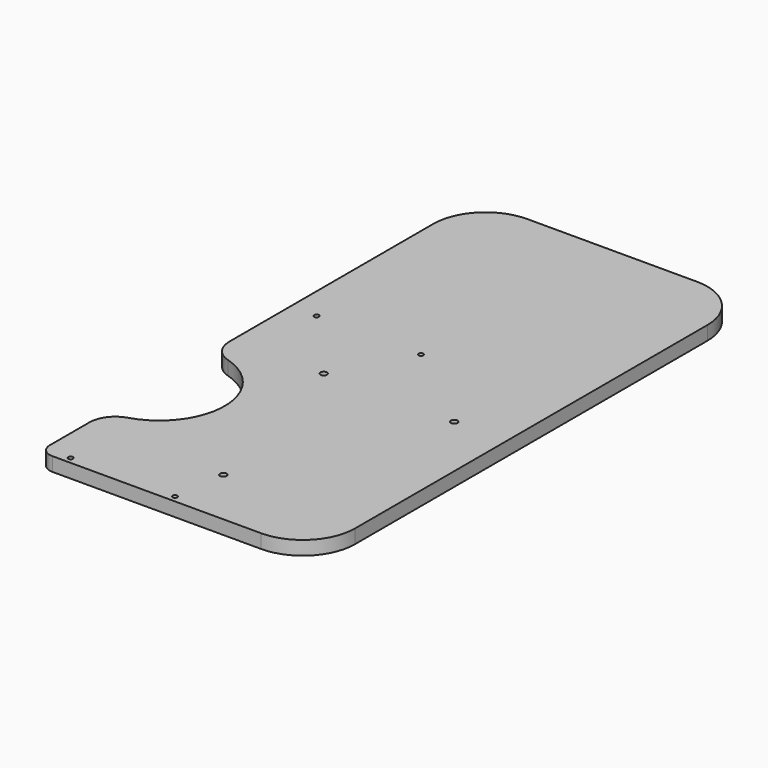
from build123d import *

# Parameters (mm, degrees)
F0_R     = 3.175
F1_DEPTH = 13.49375
F2_R     = 25.4
F4_W     = 266.7
F4_H     = 238.125
F5_DEPTH = 13.49375
F3_R     = 2.38125
F6_DEPTH = 13.49475
F7_R     = 50.8
F8_R     = 12.7


with BuildPart() as f1:
    # F0 (on Top) → F1 (new body)
    with BuildSketch(Plane.XY):
        with BuildLine():
            Line((133.35, -146.05), (133.35, 146.05))
            Line((133.35, 146.05), (-133.35, 146.05))
            Line((-133.35, 146.05), (-133.35, 63.5))
            ThreePointArc((-133.35, 63.5), (-69.85, 0), (-133.35, -63.5))
            Line((-133.35, -63.5), (-133.35, -146.05))
            Line((-133.35, -146.05), (133.35, -146.05))
        make_face()
        with Locations((0, -88.9)):
            Circle(F0_R, mode=Mode.SUBTRACT)
        with Locations((-44.45, 88.9)):
            Circle(F0_R, mode=Mode.SUBTRACT)
        with Locations((82.55, 88.9)):
            Circle(F0_R, mode=Mode.SUBTRACT)
    extrude(amount=F1_DEPTH)

    # F2
    f2_edges = [f1.edges().sort_by_distance(p)[0] for p in [
        (-133.35, -63.5, 6.746875),
        (-133.35, 63.5, 6.746875),
    ]]
    fillet(f2_edges, radius=F2_R)

    # F4 (on face) → F5 (join, through all)
    with BuildSketch(Plane.XY.offset(13.49375)):
        with Locations((0, 265.1125)):
            Rectangle(F4_W, F4_H)
    extrude(amount=-F5_DEPTH)

    # F3 (on face) → F6 (cut, through all)
    with BuildSketch(Plane.XY.offset(13.49375)):
        with Locations((-107.95, -139.7)):
            Circle(F3_R)
        with Locations((-6.35, -139.7)):
            Circle(F3_R)
        with Locations((-6.35, 159.54375)):
            Circle(F3_R)
        with Locations((-107.95, 159.54375)):
            Circle(F3_R)
    extrude(amount=-F6_DEPTH, mode=Mode.SUBTRACT)

    # F7
    f7_edges = [f1.edges().sort_by_distance(p)[0] for p in [
        (133.35, -146.05, 6.746875),
        (133.35, 384.175, 6.746875),
        (-133.35, 384.175, 6.746875),
    ]]
    fillet(f7_edges, radius=F7_R)

    # F8
    f8_edges = [f1.edges().sort_by_distance(p)[0] for p in [
        (-133.35, -146.05, 6.746875),
    ]]
    fillet(f8_edges, radius=F8_R)


solid = f1.part
